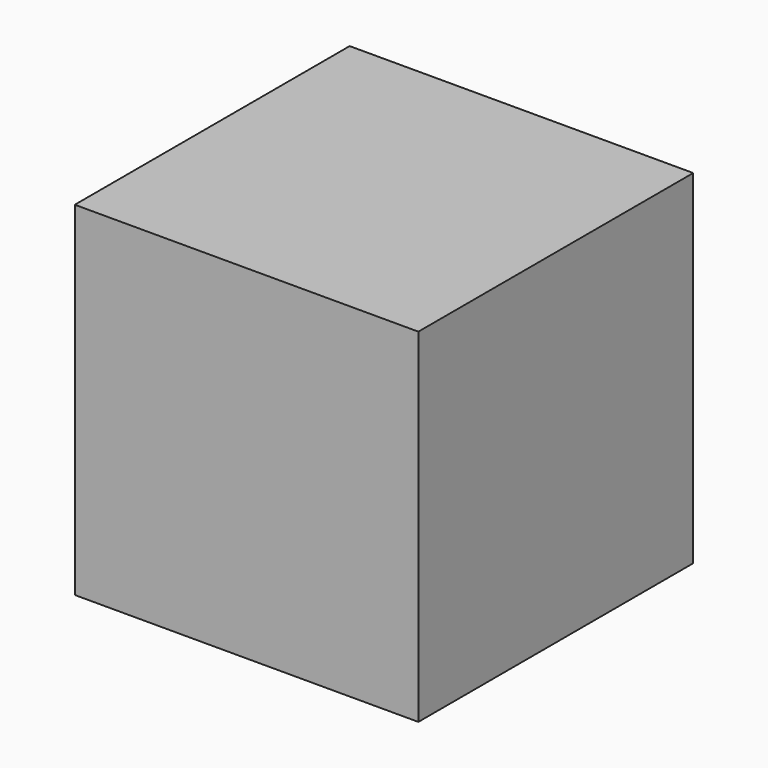
from build123d import *

# Parameters (mm, degrees)
F0_W     = 50.8
F0_H     = 50.8
F1_DEPTH = 50.8
F2_W     = 25.4
F2_H     = 25.4
F3_DEPTH = 12.7
F4_R     = 10.22151
F5_DEPTH = 25.4


with BuildPart() as f1:
    # F0 (on Front) → F1 (new body)
    with BuildSketch(Plane.XZ):
        with Locations((-25.4, 25.4)):
            Rectangle(F0_W, F0_H)
    extrude(amount=F1_DEPTH)

    # F2 (on face) → F3 (join)
    with BuildSketch(Plane(origin=(0, 0, 0), x_dir=(-1, 0, 0), z_dir=(0, 1, 0))):
        with Locations((26.126995, 28.438128)):
            Rectangle(F2_W, F2_H)
    extrude(amount=F3_DEPTH)

    # F4 (on face) → F5 (cut)
    with BuildSketch(Plane(origin=(0, 0, 0), x_dir=(1, 0, 0), z_dir=(0, 0, -1))):
        with Locations((-21.743661, 26.524765)):
            Circle(F4_R)
    extrude(amount=-F5_DEPTH, mode=Mode.SUBTRACT)


solid = f1.part
